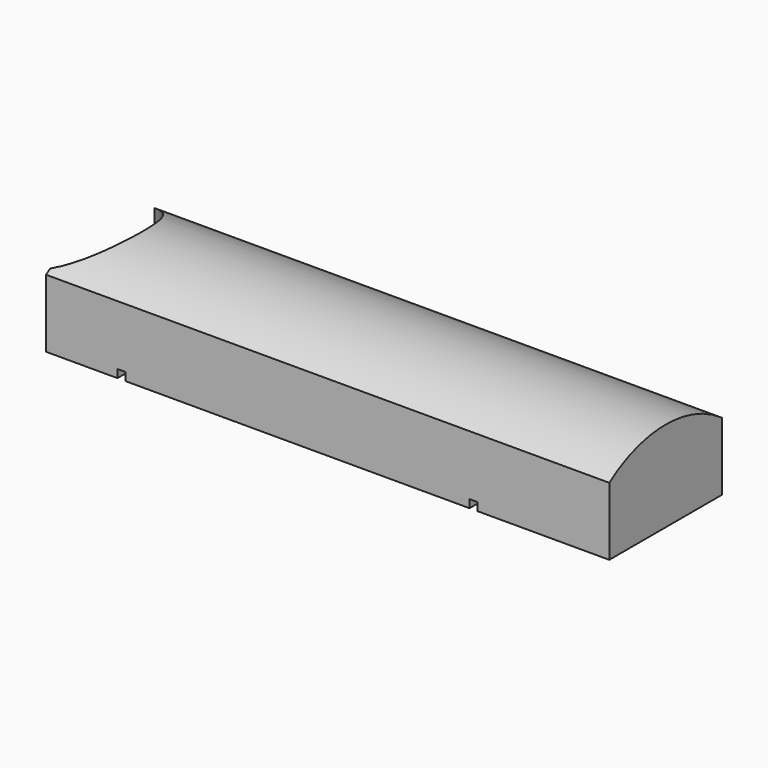
from build123d import *

# Parameters (mm, degrees)
F0_W          = 177.8
F0_H          = 31.75
F11_DEPTH     = 22.225
F1_W          = 2.54
F1_H          = 2.54
F2_DEPTH      = 22.225
F2_DEPTH_BACK = 22.225
F4_DEPTH      = 31.751
F6_DEPTH      = 177.801
F7_W          = 83.185
F7_H          = 34.925
F8_DEPTH      = 19.05
F9_R          = 3.175


with BuildPart() as f11:
    # F0 (on Front) → F11 (new body, symmetric)
    with BuildSketch(Plane.XZ):
        Rectangle(F0_W, F0_H)
    extrude(amount=F11_DEPTH, both=True)

    # F1 (on Front) → F2 (cut, two sides)
    with BuildSketch(Plane.XZ) as f2_sk:
        with Locations((-65.0875, -14.605)):
            Rectangle(F1_W, F1_H)
        with Locations((46.0375, -14.605)):
            Rectangle(F1_W, F1_H)
    extrude(amount=F2_DEPTH, mode=Mode.SUBTRACT)
    extrude(f2_sk.sketch, amount=-F2_DEPTH_BACK, mode=Mode.SUBTRACT)

    # F3 (on face) → F4 (cut, through all)
    with BuildSketch(Plane.XY.offset(15.875)):
        with BuildLine():
            Line((-88.9, 20.6375), (-88.9, -20.6375))
            ThreePointArc((-88.9, -20.6375), (-76.2, 0), (-88.9, 20.6375))
        make_face()
    extrude(amount=-F4_DEPTH, mode=Mode.SUBTRACT)

    # F5 (on face) → F6 (cut, through all)
    with BuildSketch(Plane.YZ.offset(88.9)):
        with BuildLine():
            ThreePointArc((-22.225, 5.546072), (0, 12.7), (22.225, 5.546072))
            Line((22.225, 5.546072), (22.225, 15.875))
            Line((22.225, 15.875), (-22.225, 15.875))
            Line((-22.225, 15.875), (-22.225, 5.546072))
        make_face()
    extrude(amount=-F6_DEPTH, mode=Mode.SUBTRACT)

    # F7 (on face) → F8 (cut)
    with BuildSketch(Plane(origin=(0, 0, -15.875), x_dir=(1, 0, 0), z_dir=(0, 0, -1))):
        with Locations((-9.525, 0)):
            Rectangle(F7_W, F7_H)
    extrude(amount=-F8_DEPTH, mode=Mode.SUBTRACT)

    # F9
    f9_edges = [f11.edges().sort_by_distance(p)[0] for p in [
        (32.0675, -17.4625, -6.35),
        (-51.1175, -17.4625, -6.35),
        (-51.1175, 17.4625, -6.35),
        (32.0675, 17.4625, -6.35),
    ]]
    fillet(f9_edges, radius=F9_R)


solid = f11.part
